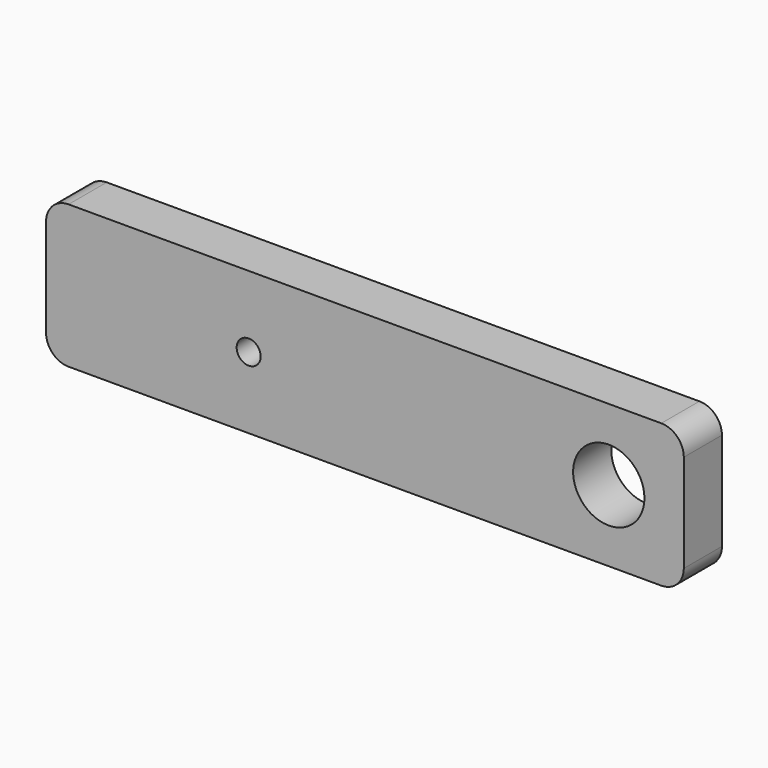
from build123d import *

# Parameters (mm, degrees)
F2_DEPTH = 6.35
F1_R     = 4.75
F1_R_2   = 1.6
F3_DEPTH = 25
F5_R     = 1.5
F6_DEPTH = 5


with BuildPart() as f2:
    # F0 (on Front) → F2 (new body)
    with BuildSketch(Plane.XZ):
        with BuildLine():
            Line((39.5, 9.525), (-39.5, 9.525))
            ThreePointArc((-39.5, 9.525), (-41.62132, 8.64632), (-42.5, 6.525))
            Line((-42.5, 6.525), (-42.5, -6.525))
            ThreePointArc((-42.5, -6.525), (-41.62132, -8.64632), (-39.5, -9.525))
            Line((-39.5, -9.525), (39.5, -9.525))
            ThreePointArc((39.5, -9.525), (41.62132, -8.64632), (42.5, -6.525))
            Line((42.5, -6.525), (42.5, 6.525))
            ThreePointArc((42.5, 6.525), (41.62132, 8.64632), (39.5, 9.525))
        make_face()
    extrude(amount=-F2_DEPTH)

    # F1 (on Front) → F3 (cut)
    with BuildSketch(Plane.XZ):
        with Locations((32.5, 0)):
            Circle(F1_R)
        with Locations((-15.5, 0)):
            Circle(F1_R_2)
    extrude(amount=-F3_DEPTH, mode=Mode.SUBTRACT)

    # F5 (on face) → F6 (cut)
    with BuildSketch(Plane(origin=(0, 0, -9.525), x_dir=(1, 0, 0), z_dir=(0, 0, -1))):
        with Locations((-25.5, -3.175)):
            Circle(F5_R)
        with Locations((25.5, -3.175)):
            Circle(F5_R)
    extrude(amount=-F6_DEPTH, mode=Mode.SUBTRACT)


solid = f2.part
